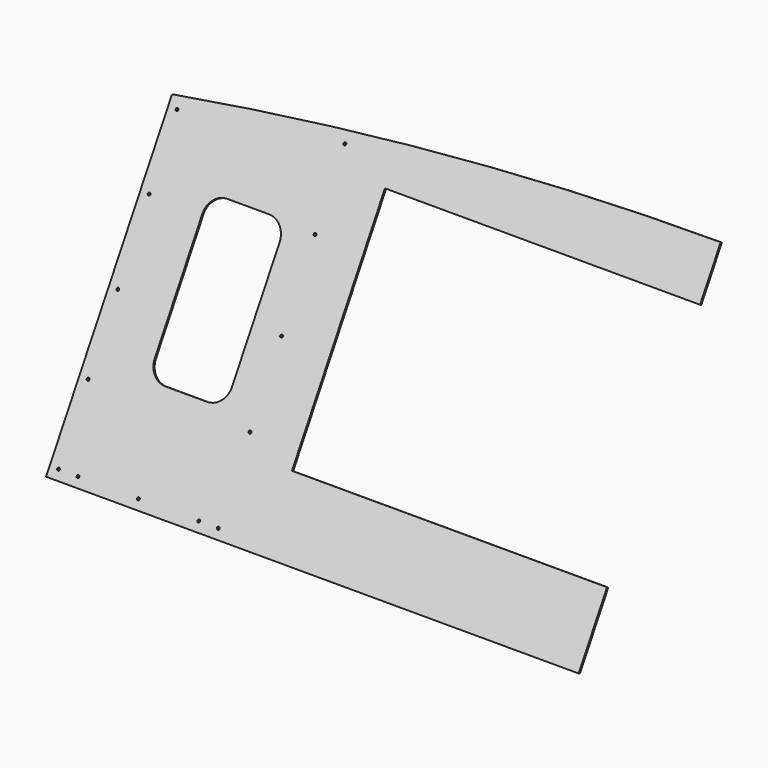
from build123d import *

# Parameters (mm, degrees)
PAD003_DEPTH            = 2
SKETCH056_R             = 1.5
POCKET034_DEPTH         = 5
SKETCH063_R             = 1.5
POCKET039_DEPTH         = 5
BODY002_PLACEMENT_ANGLE = 330


with BuildPart() as part:
    # Sketch009 → Pad003 (new body)
    with BuildSketch(Plane.XZ):
        with BuildLine():
            Line((-300, -200), (300, -200))
            Line((300, -200), (300, -120))
            Line((-55, -120), (300, -120))
            Line((-55, 142), (-55, -120))
            Line((300, 142), (-55, 142))
            Line((300, 142), (300, 200))
            ThreePointArc((300, 200), (-0.8504900273, 188.6850121637), (-300, 154.7937598629))
            Line((-300, 154.7937598629), (-300, -200))
        make_face()
        with BuildLine():
            Line((-230, 65.1307599432), (-230, -68.8692400568))
            ThreePointArc((-230, -68.8692400568), (-224.1421356237, -83.0113756806), (-210, -88.8692400568))
            Line((-210, -88.8692400568), (-163, -88.8692400568))
            ThreePointArc((-163, -88.8692400568), (-148.8578643763, -83.0113756806), (-143, -68.8692400568))
            Line((-143, -68.8692400568), (-143, 65.1307599432))
            ThreePointArc((-143, 65.1307599432), (-148.8578643763, 79.2728955669), (-163, 85.1307599432))
            Line((-163, 85.1307599432), (-210, 85.1307599432))
            ThreePointArc((-210, 85.1307599432), (-224.1421356237, 79.2728955669), (-230, 65.1307599432))
        make_face(mode=Mode.SUBTRACT)
    extrude(amount=-PAD003_DEPTH)

    # Sketch056 (on Face2 of Binder014) → Pocket034 (cut)
    with BuildSketch(Plane(origin=(0, 3.7320508076, 0), x_dir=(-1, 0, 0), z_dir=(0, 1, 0))):
        with Locations((290, -190)):
            Circle(SKETCH056_R)
        with Locations((110, -190)):
            Circle(SKETCH056_R)
        with Locations((110, -100.851579)):
            Circle(SKETCH056_R)
        with Locations((110, -11.703157)):
            Circle(SKETCH056_R)
        with Locations((110, 82.445264)):
            Circle(SKETCH056_R)
        with Locations((110, 166.593685)):
            Circle(SKETCH056_R)
        with Locations((290, 143.673156)):
            Circle(SKETCH056_R)
        with Locations((290, 65.254867)):
            Circle(SKETCH056_R)
        with Locations((290, -23.163422)):
            Circle(SKETCH056_R)
        with Locations((290, -106.581711)):
            Circle(SKETCH056_R)
    extrude(amount=-POCKET034_DEPTH, mode=Mode.SUBTRACT)

    # Sketch063 (on Face5 of Pocket034) → Pocket039 (cut)
    with BuildSketch(Plane(origin=(0, 2, 0), x_dir=(1, 0, 0), z_dir=(0, 1, 0))):
        with Locations((-132, 190)):
            Circle(SKETCH063_R)
        with Locations((-200, 190)):
            Circle(SKETCH063_R)
        with Locations((-268, 190)):
            Circle(SKETCH063_R)
    extrude(amount=-POCKET039_DEPTH, mode=Mode.SUBTRACT)


with BuildPart() as part_1:
    # Body002 placement: moved
    add(part.part.moved(Location((0, 98.1679491924, -28.9949192431))).rotate(Axis((0, 98.1679491924, -28.9949192431), (1, 0, 0)), BODY002_PLACEMENT_ANGLE))


solid = part_1.part
